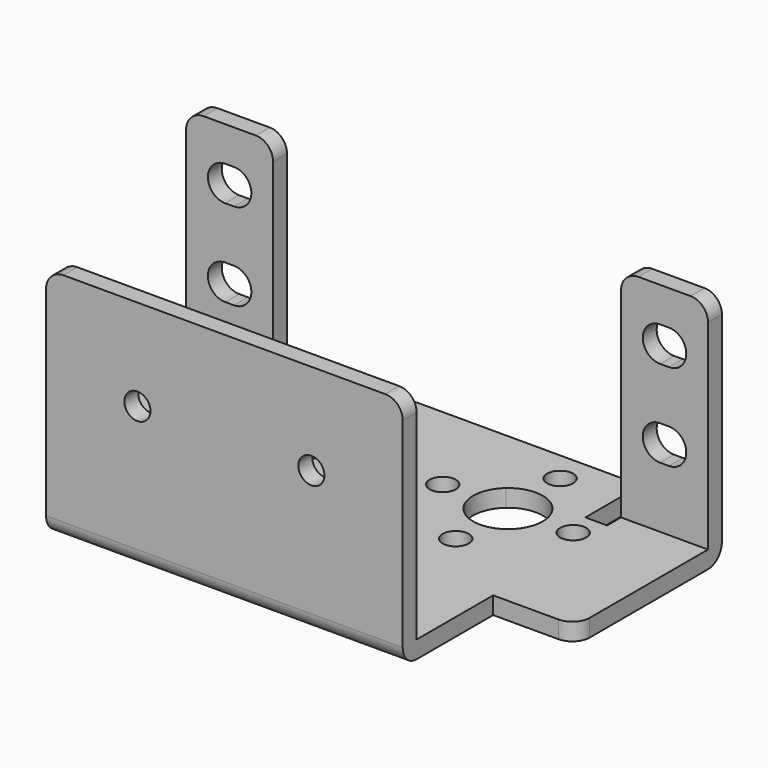
from build123d import *

# Parameters (mm, degrees)
F0_R     = 1.5
F0_W     = 41
F0_H     = 13
F0_W_2   = 10
F0_H_2   = 4
F7_DEPTH = 2
F4_W     = 41
F4_H     = 27
F4_R     = 1.5
F8_DEPTH = 2
F6_W     = 10
F6_H     = 27
F5_W     = 10
F5_H     = 27
F9_DEPTH = 2
F10_R    = 2


with BuildPart() as f7:
    # F0 (on Top) → F7 (new body)
    with BuildSketch(Plane.XY):
        with BuildLine():
            Line((-13.645751, 17), (-17.5, 17))
            Line((-17.5, 17), (-20, 17))
            Line((-20, 17), (-30, 17))
            Line((-30, 17), (-30, 0))
            Line((-30, 0), (-20.5, 0))
            Line((-20.5, 0), (20.5, 0))
            Line((20.5, 0), (30, 0))
            Line((30, 0), (30, 17))
            Line((30, 17), (20, 17))
            Line((20, 17), (17.5, 17))
            Line((17.5, 17), (13.645751, 17))
            ThreePointArc((13.645751, 17), (14.645751, 15.645751), (15, 14))
            ThreePointArc((15, 14), (9.354249, 10.354249), (8.354249, 17))
            Line((8.354249, 17), (-8.354249, 17))
            ThreePointArc((-8.354249, 17), (-7.354249, 15.645751), (-7, 14))
            ThreePointArc((-7, 14), (-12.645751, 10.354249), (-13.645751, 17))
        make_face()
        with Locations((-18.5, 14)):
            Circle(F0_R, mode=Mode.SUBTRACT)
        with Locations((-11, 6.5)):
            Circle(F0_R, mode=Mode.SUBTRACT)
        with Locations((-3.5, 14)):
            Circle(F0_R, mode=Mode.SUBTRACT)
        with Locations((11, 6.5)):
            Circle(F0_R, mode=Mode.SUBTRACT)
        with Locations((3.5, 14)):
            Circle(F0_R, mode=Mode.SUBTRACT)
        with Locations((18.5, 14)):
            Circle(F0_R, mode=Mode.SUBTRACT)
        with BuildLine():
            Line((17.5, 25), (-17.5, 25))
            Line((-17.5, 25), (-17.5, 17))
            Line((-17.5, 17), (-13.645751, 17))
            ThreePointArc((-13.645751, 17), (-11, 18), (-8.354249, 17))
            Line((-8.354249, 17), (8.354249, 17))
            ThreePointArc((8.354249, 17), (11, 18), (13.645751, 17))
            Line((13.645751, 17), (17.5, 17))
            Line((17.5, 17), (17.5, 25))
        make_face()
        with Locations((-11, 21.5)):
            Circle(F0_R, mode=Mode.SUBTRACT)
        with Locations((11, 21.5)):
            Circle(F0_R, mode=Mode.SUBTRACT)
        with Locations((0, -6.5)):
            Rectangle(F0_W, F0_H)
        with Locations((25, 19)):
            Rectangle(F0_W_2, F0_H_2)
        with Locations((-25, 19)):
            Rectangle(F0_W_2, F0_H_2)
    extrude(amount=F7_DEPTH)

    # F4 (on face) → F8 (join)
    with BuildSketch(Plane(origin=(0, -13, 0), x_dir=(-1, 0, 0), z_dir=(0, 1, 0))):
        with Locations((0, 13.5)):
            Rectangle(F4_W, F4_H)
        with Locations((-10, 16.5)):
            Circle(F4_R, mode=Mode.SUBTRACT)
        with Locations((10, 16.5)):
            Circle(F4_R, mode=Mode.SUBTRACT)
    extrude(amount=F8_DEPTH)

    # F6 (on face) + F5 (on face) → F9 (join)
    with BuildSketch(Plane(origin=(0, 21, 0), x_dir=(-1, 0, 0), z_dir=(0, 1, 0))):
        with Locations((25, 13.5)):
            Rectangle(F6_W, F6_H)
        with BuildLine():
            ThreePointArc((24.5, 9), (22.5, 11), (24.5, 13))
            Line((24.5, 13), (25.5, 13))
            ThreePointArc((25.5, 13), (27.5, 11), (25.5, 9))
            Line((25.5, 9), (24.5, 9))
        make_face(mode=Mode.SUBTRACT)
        with BuildLine():
            ThreePointArc((24.5, 19), (22.5, 21), (24.5, 23))
            Line((24.5, 23), (25.5, 23))
            ThreePointArc((25.5, 23), (27.5, 21), (25.5, 19))
            Line((25.5, 19), (24.5, 19))
        make_face(mode=Mode.SUBTRACT)
    with BuildSketch(Plane(origin=(0, 21, 0), x_dir=(-1, 0, 0), z_dir=(0, 1, 0))):
        with Locations((-25, 13.5)):
            Rectangle(F5_W, F5_H)
        with BuildLine():
            ThreePointArc((-25.5, 9), (-27.5, 11), (-25.5, 13))
            Line((-25.5, 13), (-24.5, 13))
            ThreePointArc((-24.5, 13), (-22.5, 11), (-24.5, 9))
            Line((-24.5, 9), (-25.5, 9))
        make_face(mode=Mode.SUBTRACT)
        with BuildLine():
            ThreePointArc((-25.5, 19), (-27.5, 21), (-25.5, 23))
            Line((-25.5, 23), (-24.5, 23))
            ThreePointArc((-24.5, 23), (-22.5, 21), (-24.5, 19))
            Line((-24.5, 19), (-25.5, 19))
        make_face(mode=Mode.SUBTRACT)
    extrude(amount=-F9_DEPTH)

    # F10
    f10_edges = [f7.edges().sort_by_distance(p)[0] for p in [
        (0, -13, 0),
        (-30, 0, 1),
        (30, 0, 1),
        (25, 21, 0),
        (-25, 21, 0),
        (17.5, 25, 1),
        (-17.5, 25, 1),
        (30, 20, 27),
        (20, 20, 27),
        (-20, 20, 27),
        (-30, 20, 27),
        (-20.5, -12, 27),
        (20.5, -12, 27),
    ]]
    fillet(f10_edges, radius=F10_R)


solid = f7.part
